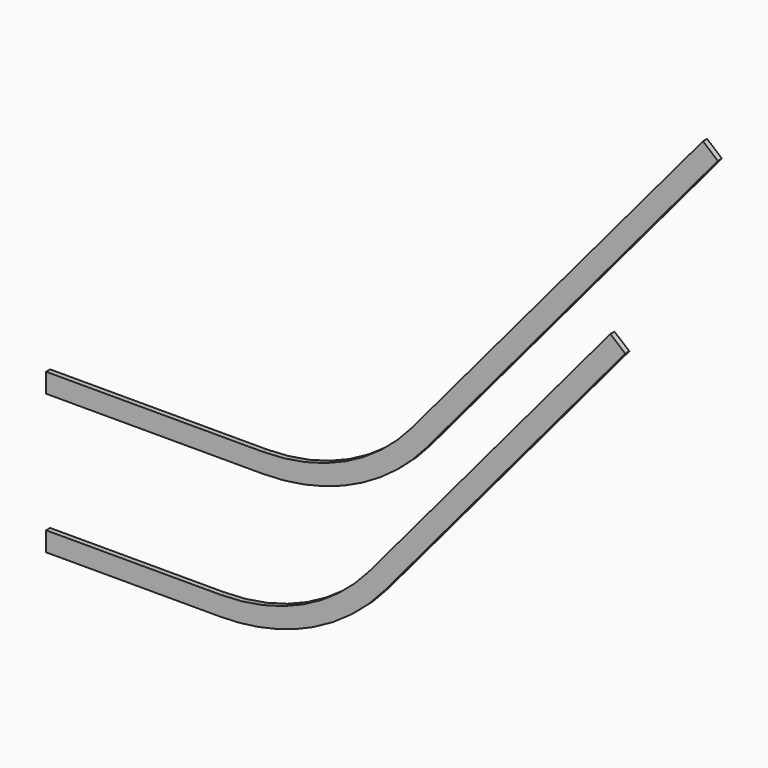
from build123d import *

# Parameters (mm, degrees)
F1_DEPTH = 10


with BuildPart() as f1:
    # F0 (on Front) → F1 (new body)
    with BuildSketch(Plane.XZ):
        with BuildLine():
            ThreePointArc((424.556895, 354.5), (601.633947, 393.757037), (745.529517, 504.171992))
            Line((745.529517, 504.171992), (1316.064805, 1184.109471))
            Line((1316.064805, 1184.109471), (1286.955116, 1208.5354))
            Line((1286.955116, 1208.5354), (716.419828, 528.597921))
            ThreePointArc((716.419828, 528.597921), (585.574453, 428.196733), (424.556895, 392.5))
            Line((424.556895, 392.5), (0, 392.5))
            Line((0, 392.5), (0, 373.5))
            Line((0, 373.5), (0, 354.5))
            Line((0, 354.5), (424.556895, 354.5))
        make_face()
        with BuildLine():
            Line((521.832516, 121.533508), (555.604914, 161.781884))
            ThreePointArc((555.604914, 161.781884), (453.202673, 115.755777), (342.043432, 100))
            Line((342.043432, 100), (292.043432, 100))
            Line((292.043432, 100), (0, 100))
            Line((0, 100), (0, 81))
            Line((0, 81), (342.043432, 81))
            ThreePointArc((342.043432, 81), (434.194233, 91.258969), (521.832516, 121.533508))
        make_face()
        with BuildLine():
            Line((555.604914, 161.781884), (633.906365, 255.097921))
            ThreePointArc((633.906365, 255.097921), (503.06099, 154.696733), (342.043432, 119))
            Line((342.043432, 119), (0, 119))
            Line((0, 119), (0, 100))
            Line((0, 100), (292.043432, 100))
            Line((292.043432, 100), (342.043432, 100))
            ThreePointArc((342.043432, 100), (453.202673, 115.755777), (555.604914, 161.781884))
        make_face()
        with BuildLine():
            Line((1105.552412, 817.183791), (633.906365, 255.097921))
            Line((633.906365, 255.097921), (555.604914, 161.781884))
            Line((555.604914, 161.781884), (521.832516, 121.533508))
            ThreePointArc((521.832516, 121.533508), (598.301844, 168.499432), (663.016054, 230.671992))
            Line((663.016054, 230.671992), (1134.662101, 792.757862))
            Line((1134.662101, 792.757862), (1105.552412, 817.183791))
        make_face()
    extrude(amount=F1_DEPTH)


solid = f1.part
